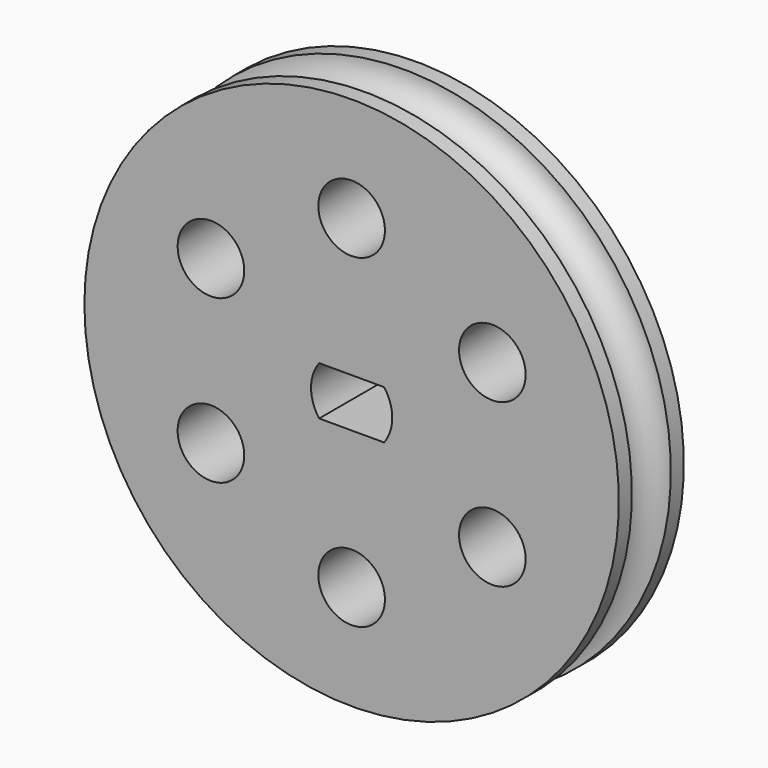
from build123d import *

# Parameters (mm, degrees)
SKETCH001_R        = 2.05
POCKET_DEPTH       = 98.592026
POLARPATTERN_COUNT = 6
PAD_DEPTH          = 5


with BuildPart() as part:
    # Sketch → Revolution (revolve)
    with BuildSketch(Plane.XY):
        with BuildLine():
            Line((-2.5, 2.5), (-2.5, -2.5))
            Line((-2.5, -2.5), (-16.45, -2.5))
            Line((-16.45, -2.5), (-16.45, -1.5))
            ThreePointArc((-16.45, -1.5), (-14.95, 0), (-16.45, 1.5))
            Line((-16.45, 1.5), (-16.45, 2.5))
            Line((-16.45, 2.5), (-2.5, 2.5))
        make_face()
    revolve(axis=Axis((0, 0, 0), (0, 1, 0)))

    # Sketch001 → Pocket (cut, through all)
    with BuildSketch(Plane.XZ.offset(2.5)):
        with Locations((0, 10)):
            Circle(SKETCH001_R)
    pocket = extrude(amount=-POCKET_DEPTH, mode=Mode.SUBTRACT)

    # PolarPattern: Pocket ×6 about axis
    polarpattern_axis = Axis((0, -2.5, 0), (0, -1, 0))
    for i in range(1, POLARPATTERN_COUNT):
        add(pocket.rotate(polarpattern_axis, i * 360 / POLARPATTERN_COUNT), mode=Mode.SUBTRACT)

    # Sketch002 → Pad (new body)
    with BuildSketch(Plane.XZ.offset(2.5)):
        with BuildLine():
            Line((-2, 1.5), (2, 1.5))
            ThreePointArc((2, 1.5), (0, 2.5), (-2, 1.5))
        make_face()
        with BuildLine():
            Line((2, -1.5), (-2, -1.5))
            ThreePointArc((-2, -1.5), (0, -2.5), (2, -1.5))
        make_face()
    extrude(amount=-PAD_DEPTH)


solid = part.part
